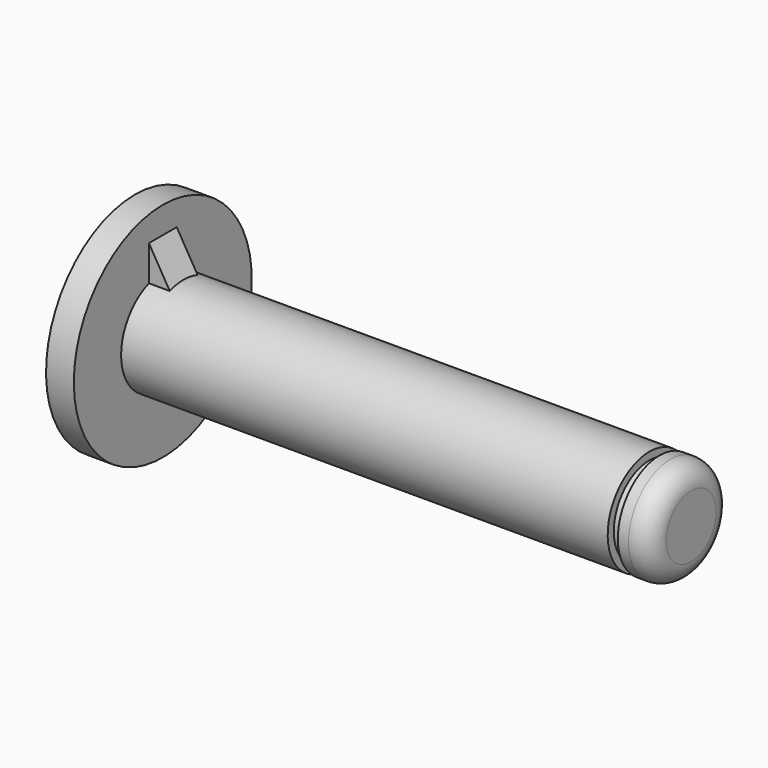
from build123d import *

# Parameters (mm, degrees)
F3_DEPTH = 1.5
F5_DEPTH = 25
F6_R     = 1.5


with BuildPart() as f1:
    # F0 (on Front) → F1 (revolve)
    with BuildSketch(Plane.XZ):
        Polygon((0, 8), (0, 0), (40, 0), (40, 3.75), (37.73, 3.75), (37.73, 3.2), (37, 3.2), (37, 3.75), (2, 3.75), (2, 8), align=None)
    revolve(axis=Axis((20, 0, 0), (-1, 0, 0)))

    # F2 (on face) → F3 (join, symmetric)
    with BuildSketch(Plane.YZ.offset(2)):
        with BuildLine():
            Line((-1.25, 6.076651), (-1.25, 3.535534))
            ThreePointArc((-1.25, 3.535534), (0, 3.75), (1.25, 3.535534))
            Line((1.25, 3.535534), (1.25, 6.076651))
            Line((1.25, 6.076651), (-1.25, 6.076651))
        make_face()
    extrude(amount=F3_DEPTH, both=True)

    # F4 (on face) → F5 (cut)
    with BuildSketch(Plane(origin=(0, 1.25, 0), x_dir=(-1, 0, 0), z_dir=(0, 1, 0))):
        Polygon((-3.5, 3.535534), (-2, 6.076651), (-3.5, 6.076651), align=None)
    extrude(amount=-F5_DEPTH, mode=Mode.SUBTRACT)

    # F6
    f6_edges = [f1.edges().sort_by_distance(p)[0] for p in [
        (40, 0, -3.75),
    ]]
    fillet(f6_edges, radius=F6_R)


solid = f1.part
